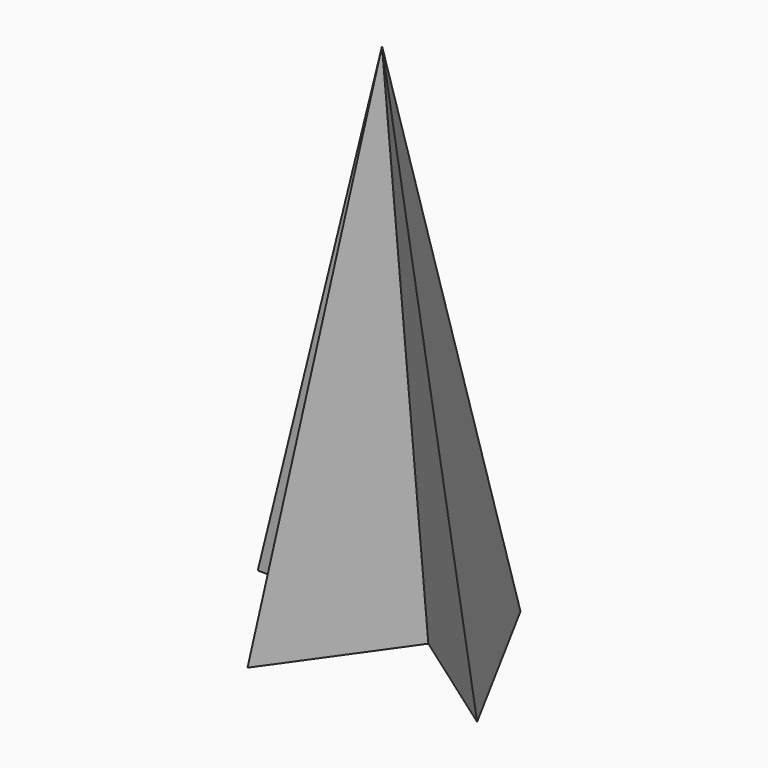
from build123d import *


with BuildPart() as f3:
    # F0 (on Top) → F3 section 0
    with BuildSketch(Plane.XY, mode=Mode.PRIVATE) as f3_s0:
        Polygon((-35.571158, 47.060769), (-58.673039, 23.08712), (-27.454027, 22.21535), (-27.454027, -20.076442), (0, 18.728275), (36.349792, -6.988913), (7.145527, 47.060769), align=None)
    loft([Vertex(0, 0, 177.8), f3_s0.sketch])


solid = f3.part
